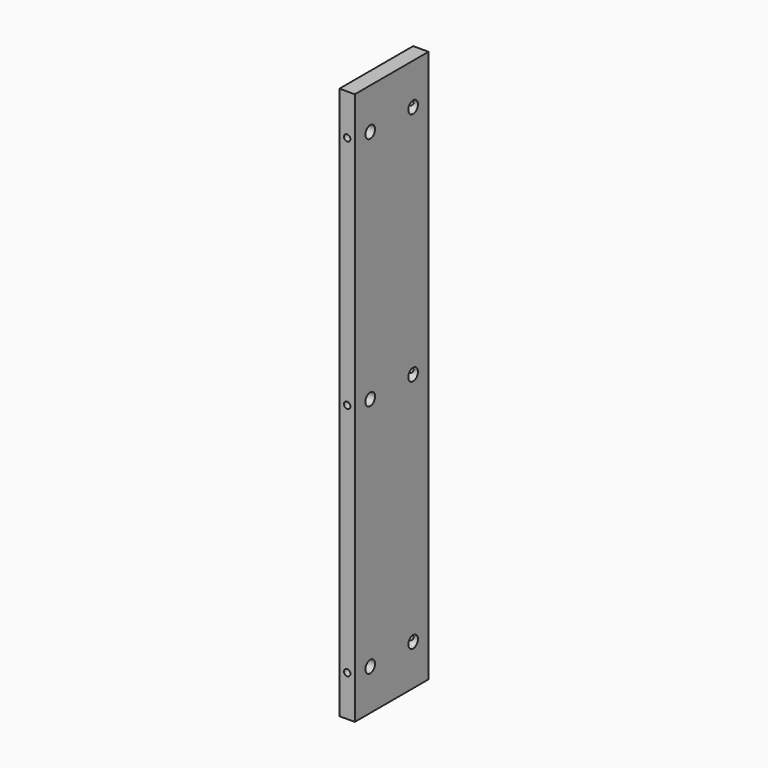
from build123d import *

# Parameters (mm, degrees)
F0_W     = 114.3
F0_H     = 685.8
F1_DEPTH = 19.05
F3_D     = 15.0114
F3_DEPTH = 14.224
F3_TIP   = 4.5098795482
F5_D     = 8.001
F5_DEPTH = 25.4
F5_TIP   = 2.4037429064
F7_D     = 8.001
F7_DEPTH = 25.4
F7_TIP   = 2.4037429064


with BuildPart() as f1:
    # F0 (on Right) → F1 (new body)
    with BuildSketch(Plane.YZ):
        Rectangle(F0_W, F0_H)
    extrude(amount=F1_DEPTH)

    # F3
    with Locations(Plane.YZ.offset(19.05)):
        with Locations((-33.274, 292.1), (33.274, 292.1), (-33.274, 0), (33.274, 0), (33.274, -292.1), (-33.274, -292.1)):
            Hole(F3_D / 2, depth=F3_DEPTH)
            with Locations((0, 0, -(F3_DEPTH + F3_TIP / 2))):  # 118° drill point
                Cone(0, F3_D / 2, F3_TIP, mode=Mode.SUBTRACT)

    # F5
    with Locations(Plane(origin=(0, 57.15, 0), x_dir=(-1, 0, 0), z_dir=(0, 1, 0))):
        with Locations((-9.525, -292.1), (-9.525, 292.1), (-9.525, 0)):
            Hole(F5_D / 2, depth=F5_DEPTH)
            with Locations((0, 0, -(F5_DEPTH + F5_TIP / 2))):  # 118° drill point
                Cone(0, F5_D / 2, F5_TIP, mode=Mode.SUBTRACT)

    # F7
    with Locations(Plane.XZ.offset(57.15)):
        with Locations((9.525, 292.1), (9.525, 0), (9.525, -292.1)):
            Hole(F7_D / 2, depth=F7_DEPTH)
            with Locations((0, 0, -(F7_DEPTH + F7_TIP / 2))):  # 118° drill point
                Cone(0, F7_D / 2, F7_TIP, mode=Mode.SUBTRACT)


solid = f1.part
